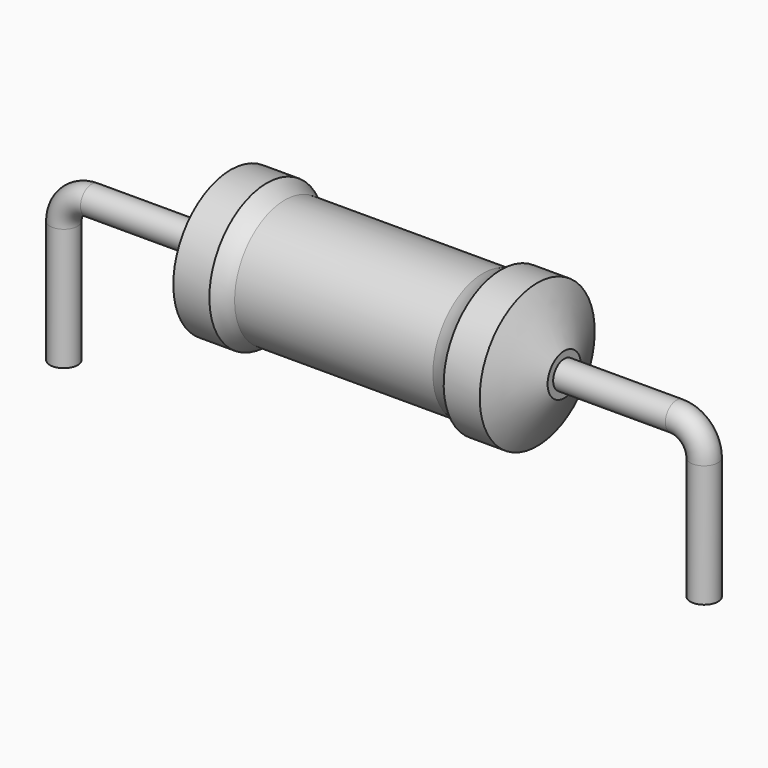
from build123d import *

# Parameters (mm, degrees)
SKETCH_R = 0.55


with BuildPart() as revolution:
    # Sketch002 → Revolution (revolve)
    with BuildSketch(Plane.XZ):
        with BuildLine():
            Line((6.6225, 5.8), (8.0525, 5.8))
            ThreePointArc((8.0525, 5.8), (8.395206, 5.591662), (8.7675, 5.4425))
            Line((8.7675, 5.4425), (16.6325, 5.4425))
            ThreePointArc((16.6325, 5.4425), (17.004794, 5.591662), (17.3475, 5.8))
            Line((17.3475, 5.8), (18.7775, 5.8))
            ThreePointArc((19.85, 3.775), (19.316686, 4.789055), (18.7775, 5.8))
            Line((19.85, 2.95), (19.85, 3.775))
            Line((5.55, 2.95), (19.85, 2.95))
            Line((5.55, 2.95), (5.55, 3.775))
            ThreePointArc((6.6225, 5.8), (6.083314, 4.789055), (5.55, 3.775))
        make_face()
    revolve(axis=Axis((5.55, 0, 2.95), (1, 0, 0)))


with BuildPart() as sweep_body:
    # Sweep: sweep along a path in Sketch001
    with BuildLine(Plane.XZ) as sweep_path:
        Line((0, -3), (0, 1.85))
        ThreePointArc((0, 1.85), (0.32218, 2.627814), (1.099991, 2.95))
        Line((1.099991, 2.95), (24.3, 2.95))
        ThreePointArc((24.3, 2.95), (25.077817, 2.627817), (25.4, 1.85))
        Line((25.4, 1.85), (25.4, -3))
    # Sketch → Sweep (sweep)
    with BuildSketch(Plane.XY.offset(-2)):
        Circle(SKETCH_R)
    sweep(path=sweep_path.line)


solid = Compound([revolution.part, sweep_body.part])
